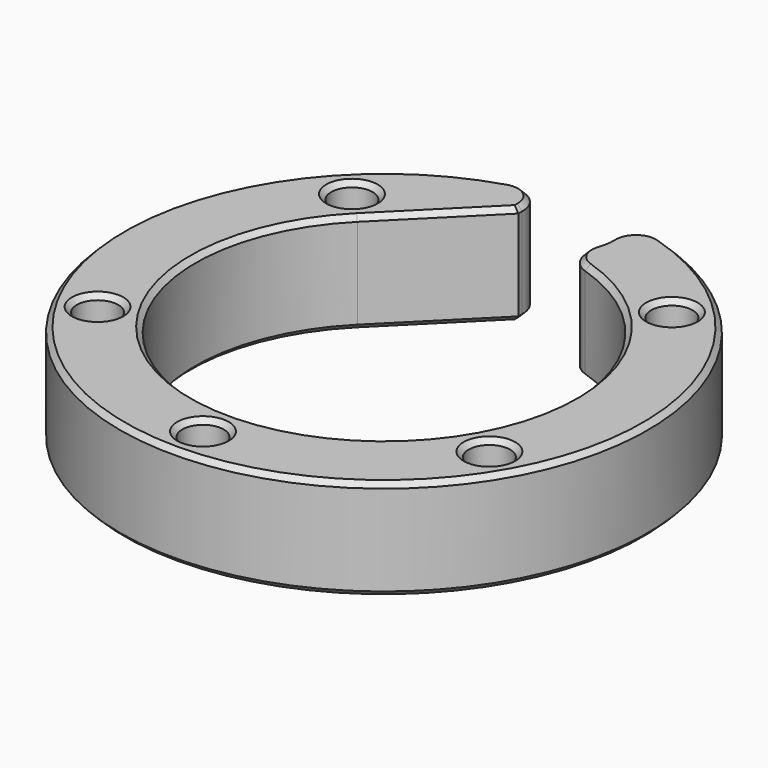
from build123d import *

# Parameters (mm, degrees)
SKETCH_R                    = 21
PAD_DEPTH                   = 14
SKETCH001_R                 = 9.05
POCKET_DEPTH                = 4
SKETCH002_R                 = 8.05
POCKET001_DEPTH             = 14.001
SKETCH003_R                 = 15
POCKET002_DEPTH             = 8.001
POCKET003_DEPTH             = 8
SKETCH005_R                 = 3.5
POCKET004_DEPTH             = 8
FILLET_R                    = 2
SKETCH006_R                 = 4
PAD001_DEPTH                = 6
SKETCH007_R                 = 1.65
POCKET005_DEPTH             = 14.001
SKETCH046_R                 = 25
POCKET031_DEPTH             = 6
CHAMFER003068012002052_SIZE = 0.4


with BuildPart() as part:
    # Sketch → Pad (new body)
    with BuildSketch(Plane.XY):
        Circle(SKETCH_R)
    extrude(amount=PAD_DEPTH)

    # Sketch001 (on DatumPlane) → Pocket (cut)
    with BuildSketch(Plane.XY):
        Circle(SKETCH001_R)
    extrude(amount=POCKET_DEPTH, mode=Mode.SUBTRACT)

    # Sketch002 (on DatumPlane) → Pocket001 (cut, through all)
    with BuildSketch(Plane.XY):
        Circle(SKETCH002_R)
    extrude(amount=POCKET001_DEPTH, mode=Mode.SUBTRACT)

    # Sketch003 (on DatumPlane) → Pocket002 (cut, through all)
    with BuildSketch(Plane.XY.offset(6)):
        Circle(SKETCH003_R)
    extrude(amount=POCKET002_DEPTH, mode=Mode.SUBTRACT)

    # Sketch004 (on DatumPlane) → Pocket003 (cut)
    with BuildSketch(Plane.XY.offset(14)):
        Polygon((-10.606602, 10.606602), (0, 10.606602), (0, 21.213203), align=None)
    extrude(amount=-POCKET003_DEPTH, mode=Mode.SUBTRACT)

    # Sketch005 (on DatumPlane) → Pocket004 (cut)
    with BuildSketch(Plane.XY.offset(14)):
        with Locations((0, 18)):
            Circle(SKETCH005_R)
    extrude(amount=-POCKET004_DEPTH, mode=Mode.SUBTRACT)

    # Fillet
    fillet_edges = [part.edges().sort_by_distance(p)[0] for p in [
        (-1.945126, 20.909722, 10),
        (1.945126, 20.909722, 10),
        (1.643223, 14.909722, 10),
    ]]
    fillet(fillet_edges, radius=FILLET_R)

    # Sketch006 (on DatumPlane) → Pad001 (join)
    with BuildSketch(Plane.XY):
        with Locations((0, 18)):
            Circle(SKETCH006_R)
        with Locations((-12.727922, 12.727922)):
            Circle(SKETCH006_R)
        with Locations((12.727922, 12.727922)):
            Circle(SKETCH006_R)
        with Locations((-15.588457, -9)):
            Circle(SKETCH006_R)
        with Locations((15.588457, -9)):
            Circle(SKETCH006_R)
    extrude(amount=PAD001_DEPTH)

    # Sketch007 (on DatumPlane) → Pocket005 (cut, through all)
    with BuildSketch(Plane.XY):
        with Locations((-12.727922, 12.727922)):
            Circle(SKETCH007_R)
        with Locations((12.727922, 12.727922)):
            Circle(SKETCH007_R)
        with Locations((0, 18)):
            Circle(SKETCH007_R)
        with Locations((-15.588457, -9)):
            Circle(SKETCH007_R)
        with Locations((15.588457, -9)):
            Circle(SKETCH007_R)
        with Locations((0, -18)):
            Circle(SKETCH007_R)
    extrude(amount=POCKET005_DEPTH, mode=Mode.SUBTRACT)

    # Sketch046 (on Face5 of Pocket005) → Pocket031 (cut)
    with BuildSketch(Plane(origin=(0, 0, 0), x_dir=(1, 0, 0), z_dir=(0, 0, -1))):
        Circle(SKETCH046_R)
    extrude(amount=-POCKET031_DEPTH, mode=Mode.SUBTRACT)

    # Chamfer003068012002052
    chamfer003068012002052_edges = [part.edges().sort_by_distance(p)[0] for p in [
        (-3.499121, 17.921582, 14),
        (-4.27738, 19.772747, 14),
        (-7.047855, 14.165348, 14),
        (-12.518313, -16.860956, 14),
        (-5.740251, -13.858193, 14),
        (16.860956, 12.518313, 14),
        (12.118742, 8.839462, 14),
        (4.27738, 19.772747, 14),
        (3.402691, 15.295524, 14),
        (3.499491, 18.059668, 14),
        (3.450776, 17.415069, 14),
        (-1.65, -18, 14),
        (-17.238457, -9, 14),
        (13.938457, -9, 14),
        (-14.377922, 12.727922, 14),
        (11.077922, 12.727922, 14),
        (-9.535985, 18.710024, 6),
        (-14.849242, 14.849242, 6),
        (-20.820342, 2.74105, 6),
        (-18.186533, -10.5, 6),
        (0, -21, 6),
        (18.186533, -10.5, 6),
        (20.607252, -4.042422, 6),
        (19.903312, 6.697625, 6),
        (14.849242, 14.849242, 6),
        (9.535985, 18.710024, 6),
        (4.27738, 19.772747, 6),
        (3.499491, 18.059668, 6),
        (3.450776, 17.415069, 6),
        (3.402691, 15.295524, 6),
        (6.75734, 13.391727, 6),
        (10.606602, 10.606602, 6),
        (14.275343, 4.605928, 6),
        (14.75441, -2.703217, 6),
        (12.990381, -7.5, 6),
        (0, -15, 6),
        (-12.990381, -7.5, 6),
        (-14.871673, 1.957893, 6),
        (-11.426085, 9.71826, 6),
        (-7.047855, 14.165348, 6),
        (-3.499121, 17.921582, 6),
        (-4.27738, 19.772747, 6),
        (13.938457, -9, 6),
        (-1.65, -18, 6),
        (-17.238457, -9, 6),
        (11.077922, 12.727922, 6),
        (-14.377922, 12.727922, 6),
    ]]
    chamfer(chamfer003068012002052_edges, length=CHAMFER003068012002052_SIZE)


with BuildPart() as part_1:
    # Body placement: moved
    add(part.part.moved(Location((0, 0, -2))))


solid = part_1.part
